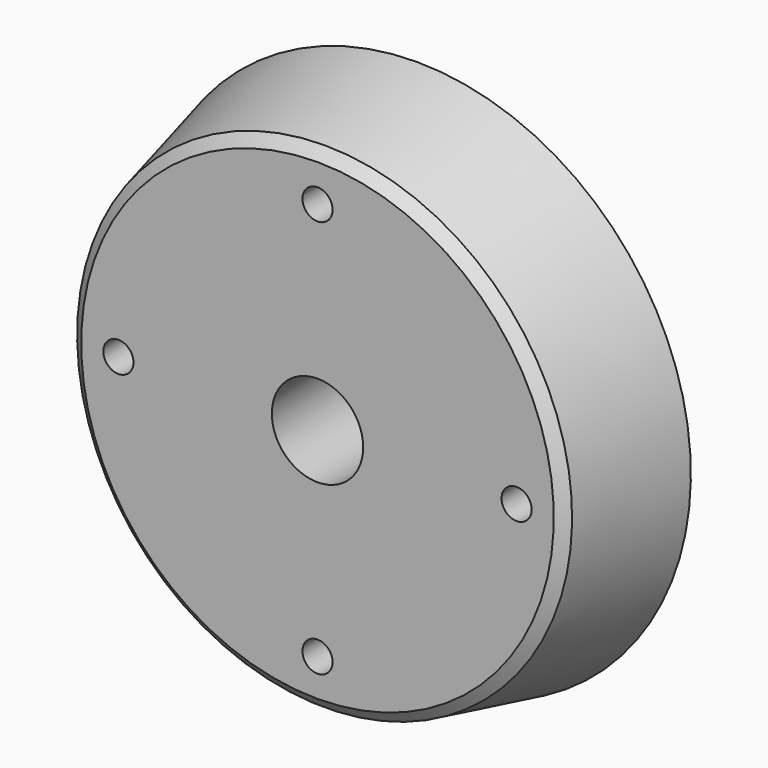
from build123d import *

# Parameters (mm, degrees)
F3_D    = 10
F5_SIZE = 1
F6_D    = 3.3


with BuildPart() as f1:
    # F0 (on Right) → F1 (revolve)
    with BuildSketch(Plane.YZ):
        Polygon((-13.6, 0), (0, 0), (0, 30), (-13.6, 26.875), align=None)
    revolve(axis=Axis((0, -6.8, 0), (0, -1, 0)))

    # F3 (through all)
    with Locations(Plane(origin=(0, 0, 0), x_dir=(-1, 0, 0), z_dir=(0, 1, 0))):
        with Locations((0, 0)):
            Hole(F3_D / 2)

    # F5
    f5_edges = [f1.edges().sort_by_distance(p)[0] for p in [
        (0, -13.6, -26.875),
    ]]
    chamfer(f5_edges, length=F5_SIZE)

    # F6 (through all)
    with Locations(Plane.XZ.offset(13.6)):
        with Locations((0, 21.8), (21.8, 0), (0, -21.8), (-21.8, 0)):
            Hole(F6_D / 2)


solid = f1.part
